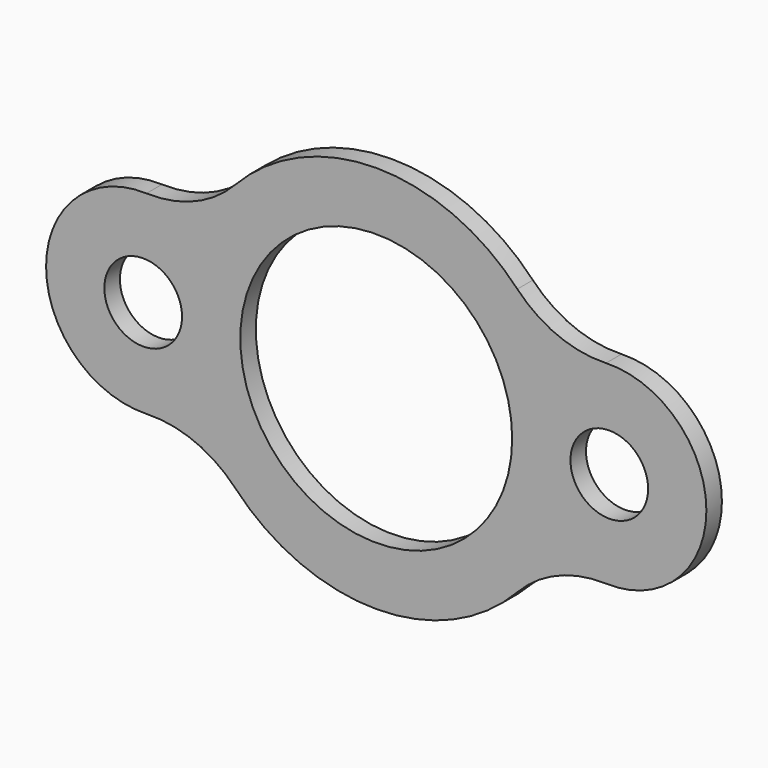
from build123d import *

# Parameters (mm, degrees)
F0_R     = 12.7
F0_R_2   = 44.45
F1_DEPTH = 6.35


with BuildPart() as f1:
    # F0 (on Front) → F1 (new body)
    with BuildSketch(Plane.XZ):
        with BuildLine():
            ThreePointArc((-74.122493, 101.289316), (-89.892583, 104.122403), (-103.103388, 113.188645))
            ThreePointArc((-103.103388, 113.188645), (-149.240107, 133.057771), (-195.376826, 113.188645))
            ThreePointArc((-195.376826, 113.188645), (-208.58763, 104.122403), (-224.35772, 101.289316))
            ThreePointArc((-224.35772, 101.289316), (-257.190107, 69.557771), (-224.35772, 37.826226))
            ThreePointArc((-224.35772, 37.826226), (-208.58763, 34.993139), (-195.376826, 25.926897))
            ThreePointArc((-195.376826, 25.926897), (-149.240107, 6.057771), (-103.103388, 25.926897))
            ThreePointArc((-103.103388, 25.926897), (-89.892583, 34.993139), (-74.122493, 37.826226))
            ThreePointArc((-74.122493, 37.826226), (-41.290107, 69.557771), (-74.122493, 101.289316))
        make_face()
        with Locations((-225.440107, 69.557771)):
            Circle(F0_R, mode=Mode.SUBTRACT)
        with Locations((-149.240107, 69.557771)):
            Circle(F0_R_2, mode=Mode.SUBTRACT)
        with Locations((-73.040107, 69.557771)):
            Circle(F0_R, mode=Mode.SUBTRACT)
    extrude(amount=F1_DEPTH)


solid = f1.part
